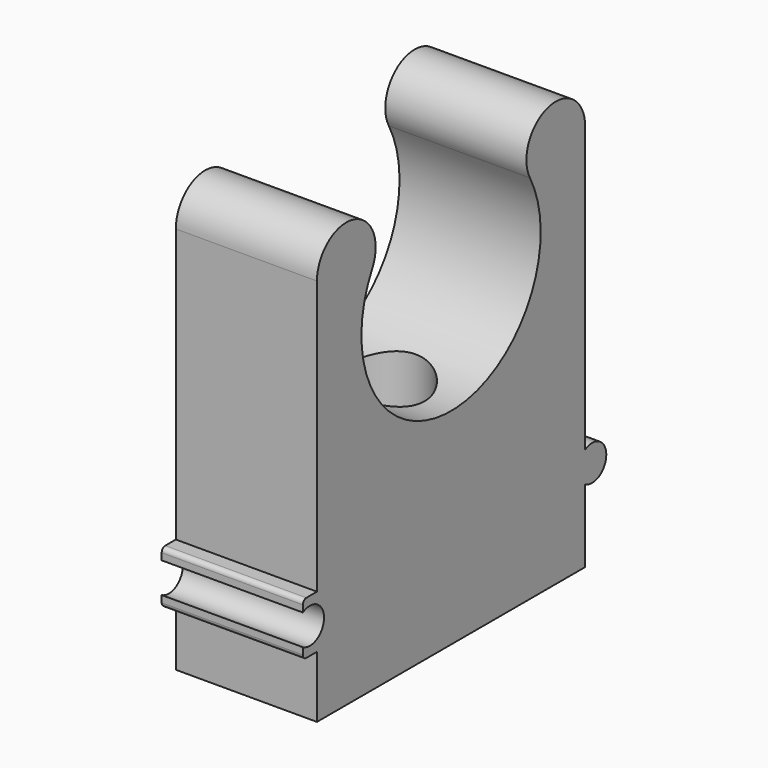
from build123d import *

# Parameters (mm, degrees)
F1_DEPTH       = 8
F1_DEPTH_BACK  = 8
F3_D           = 6
F3_START       = 12.7000001
F3_CBORE_D     = 10
F3_CBORE_DEPTH = 17.3
F4_R           = 0.5


with BuildPart() as f1:
    # F0 (on Right) → F1 (new body, two sides)
    with BuildSketch(Plane.YZ) as f1_sk:
        with BuildLine():
            Line((-19, -29), (-19, -36))
            Line((-19, -36), (19, -36))
            Line((19, -36), (19, -27.7320508076))
            ThreePointArc((19, -27.7320508076), (22, -26), (19, -24.2679491924))
            Line((19, -24.2679491924), (19, -16.2))
            Line((19, -16.2), (19, 8))
            ThreePointArc((19, 8), (13.8227400876, 12.0330174031), (11.1791699801, 6.026288954))
            ThreePointArc((11.1791699801, 6.026288954), (0, -12.7), (-11.1791699801, 6.026288954))
            ThreePointArc((-11.1791699801, 6.026288954), (-13.8227400876, 12.0330174031), (-19, 8))
            Line((-19, 8), (-19, -23))
            Line((-19, -23), (-21, -23))
            Line((-21, -23), (-21, -24.2679491924))
            ThreePointArc((-21, -24.2679491924), (-18, -26), (-21, -27.7320508076))
            Line((-21, -27.7320508076), (-21, -29))
            Line((-21, -29), (-19, -29))
        make_face()
    extrude(amount=F1_DEPTH)
    extrude(f1_sk.sketch, amount=-F1_DEPTH_BACK)

    # F3 (through all)
    # its depths count from where the whole tool has entered the part; down to there all is cleared
    with Locations(Plane.XY.offset(-F3_START)):
        with Locations((0, 0)):
            CounterBoreHole(F3_D / 2, F3_CBORE_D / 2, F3_CBORE_DEPTH)

    # F4
    f4_edges = [f1.edges().sort_by_distance(p)[0] for p in [
        (0, -21, -23),
        (0, -21, -29),
    ]]
    fillet(f4_edges, radius=F4_R)


solid = f1.part
